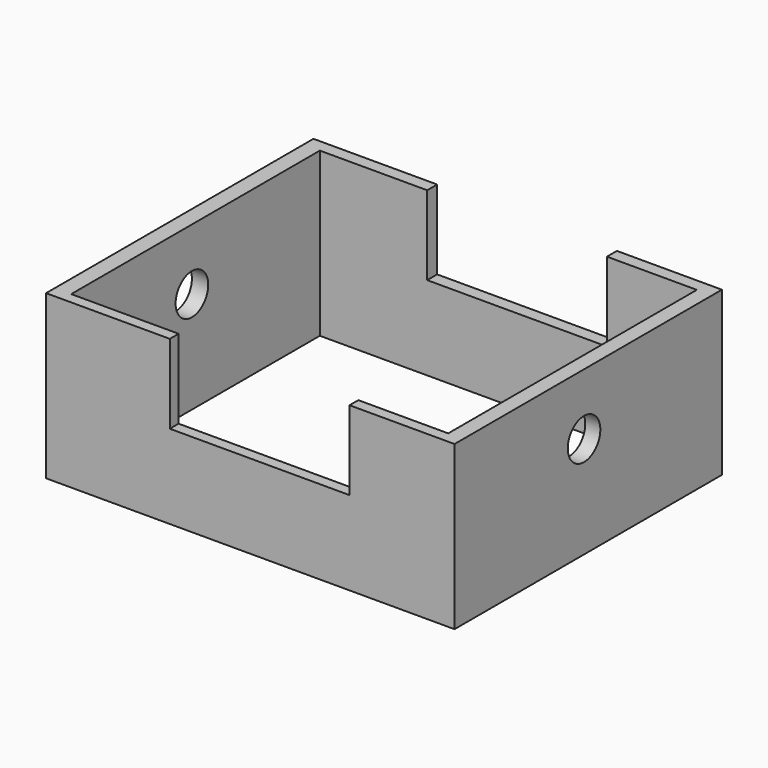
from build123d import *

# Parameters (mm, degrees)
F0_W          = 100.2182774246
F0_H          = 82.0081606507
F3_DEPTH      = 40
F4_D          = 10
F4_DEPTH      = 54.9592019448
F5_D          = 10
F1_W          = 44.1022608429
F1_H          = 32.8041445464
F6_DEPTH      = 60.3
F6_DEPTH_BACK = 51.5
F7_W          = 92.5000049174
F7_H          = 76.2500017881
F8_DEPTH      = 52.4
F8_DEPTH_BACK = 25


with BuildPart() as f3:
    # F0 (on Top) → F3 (new body)
    with BuildSketch(Plane.XY):
        with Locations((4.8490632325, 5.9297867119)):
            Rectangle(F0_W, F0_H)
    extrude(amount=F3_DEPTH)

    # F4 (through all, one way)
    with BuildSketch(Plane(origin=(0, 0, 0), x_dir=(0, 1, 0), z_dir=(-1, 0, 0))):
        with Locations((4.6449177898, -24.9448493123)):
            Circle(F4_D / 2)
    extrude(amount=-F4_DEPTH, mode=Mode.SUBTRACT)

    # F5 (through all)
    with Locations(Plane.YZ):
        with Locations((4.6449177898, 24.9448493123)):
            Hole(F5_D / 2)

    # F1 (on Front) → F6 (cut, two sides)
    with BuildSketch(Plane.XZ) as f6_sk:
        with Locations((7.1431370452, 36.986050196)):
            Rectangle(F1_W, F1_H)
    extrude(amount=-F6_DEPTH, mode=Mode.SUBTRACT)
    extrude(f6_sk.sketch, amount=F6_DEPTH_BACK, mode=Mode.SUBTRACT)

    # F7 (on Top) → F8 (cut, two sides)
    with BuildSketch(Plane.XY) as f8_sk:
        with Locations((5.0000008196, 5.7500004768)):
            Rectangle(F7_W, F7_H)
    extrude(amount=F8_DEPTH, mode=Mode.SUBTRACT)
    extrude(f8_sk.sketch, amount=-F8_DEPTH_BACK, mode=Mode.SUBTRACT)


solid = f3.part
